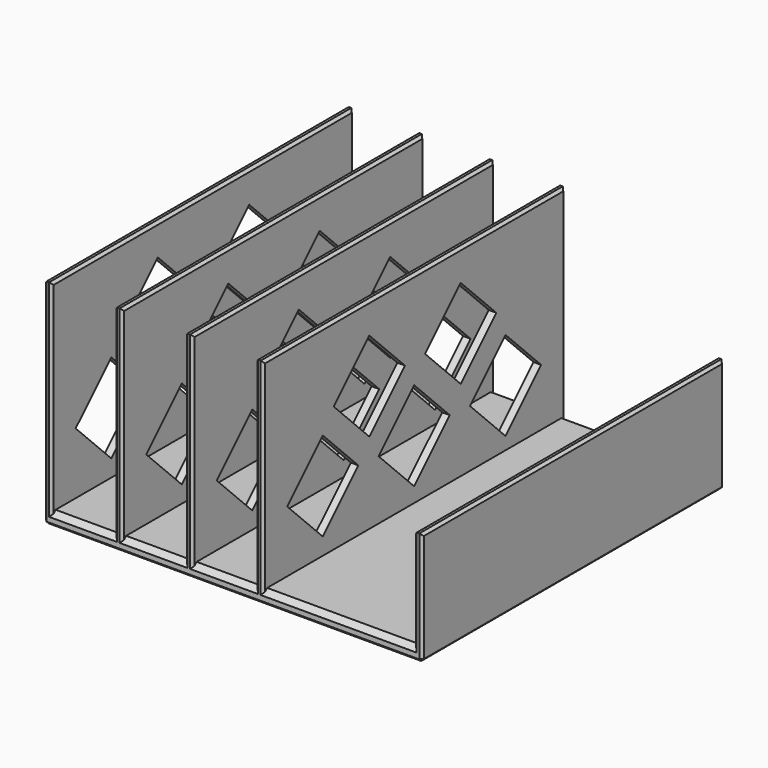
from build123d import *

# Parameters (mm, degrees)
F0_W     = 3
F0_H     = 80
F0_H_2   = 40
F0_H_3   = 79.9047601223
F1_DEPTH = 150
F3_DEPTH = 120
F4_SIZE  = 2
F5_SIZE  = 1
F6_SIZE  = 1
F7_SIZE  = 1


with BuildPart() as f1:
    # F0 (on Front) → F1 (new body)
    with BuildSketch(Plane.XZ):
        with Locations((-61.7444703951, 45)):
            Rectangle(F0_W, F0_H)
        Polygon((-60.2444703951, 5), (-63.2444703951, 5), (-63.2444703951, 0), (86.7555296049, 0), (86.7555296049, 5), (83.7555296049, 5), (23.7555296049, 5), (20.7555296049, 5), (-4.2444703951, 5), (-7.2444703951, 5), (-32.2444703951, 5), (-35.2444703951, 5), align=None)
        with Locations((-33.7444703951, 45)):
            Rectangle(F0_W, F0_H)
        with Locations((85.2555296049, 25)):
            Rectangle(F0_W, F0_H_2)
        with Locations((-5.7444703951, 45)):
            Rectangle(F0_W, F0_H)
        with Locations((22.2555296049, 44.9523800611)):
            Rectangle(F0_W, F0_H_3)
    extrude(amount=F1_DEPTH)

    # F2 (on face) → F3 (cut)
    with BuildSketch(Plane(origin=(-63.2444703951, 0, 0), x_dir=(0, -1, 0), z_dir=(-1, 0, 0))):
        Polygon((47.3553390593, 27.6776695297), (29.6776695297, 45.3553390593), (12, 27.6776695297), (29.6776695297, 10), align=None)
        Polygon((92.7106781187, 28.5361891277), (75.033008589, 46.2138586573), (57.3553390593, 28.5361891277), (75.033008589, 10.858519598), align=None)
        Polygon((138.066017178, 29.3947087257), (120.3883476483, 47.0723782553), (102.7106781187, 29.3947087257), (120.3883476483, 11.717039196), align=None)
        Polygon((69.60374879, 54.9267344821), (51.9260792603, 72.6044040117), (34.2484097307, 54.9267344821), (51.9260792603, 37.2490649524), align=None)
        Polygon((114.9590878493, 54.9267344821), (97.2814183197, 72.6044040117), (79.60374879, 54.9267344821), (97.2814183197, 37.2490649524), align=None)
    extrude(amount=-F3_DEPTH, mode=Mode.SUBTRACT)

    # F4
    f4_edges = [f1.edges().sort_by_distance(p)[0] for p in [
        (53.75553, -150, 5),
        (8.25553, -150, 5),
        (-19.74447, -150, 5),
        (-47.74447, -150, 5),
        (-47.74447, 0, 5),
        (-19.74447, 0, 5),
        (8.25553, 0, 5),
        (53.75553, 0, 5),
    ]]
    chamfer(f4_edges, length=F4_SIZE)

    # F5
    f5_edges = [f1.edges().sort_by_distance(p)[0] for p in [
        (-63.24447, -75, 0),
        (11.75553, -150, 0),
        (86.75553, -75, 0),
        (11.75553, 0, 0),
        (83.75553, -150, 25),
        (20.75553, -150, 44.95238),
        (-7.24447, -150, 45),
        (-35.24447, -150, 45),
        (-63.24447, -150, 42.5),
        (86.75553, -150, 22.5),
        (23.75553, -150, 44.95238),
        (-4.24447, -150, 45),
        (-32.24447, -150, 45),
        (-60.24447, -150, 45),
    ]]
    chamfer(f5_edges, length=F5_SIZE)

    # F6
    f6_edges = [f1.edges().sort_by_distance(p)[0] for p in [
        (83.75553, 0, 25),
        (86.75553, 0, 23),
        (23.75553, 0, 44.95238),
        (20.75553, 0, 44.95238),
        (-4.24447, 0, 45),
        (-7.24447, 0, 45),
        (-32.24447, 0, 45),
        (-35.24447, 0, 45),
        (-60.24447, 0, 45),
        (-63.24447, 0, 43),
    ]]
    chamfer(f6_edges, length=F6_SIZE)

    # F7
    f7_edges = [f1.edges().sort_by_distance(p)[0] for p in [
        (86.75553, -75, 45),
        (83.75553, -75, 45),
        (23.75553, -75, 84.90476),
        (20.75553, -75, 84.90476),
        (-4.24447, -75, 85),
        (-7.24447, -75, 85),
        (-32.24447, -75, 85),
        (-35.24447, -75, 85),
        (-60.24447, -75, 85),
        (-63.24447, -75, 85),
    ]]
    chamfer(f7_edges, length=F7_SIZE)


with BuildPart() as f1_1:
    # F8: moved
    add(f1.part.moved(Location((-12, 75, 0))))


solid = f1_1.part
